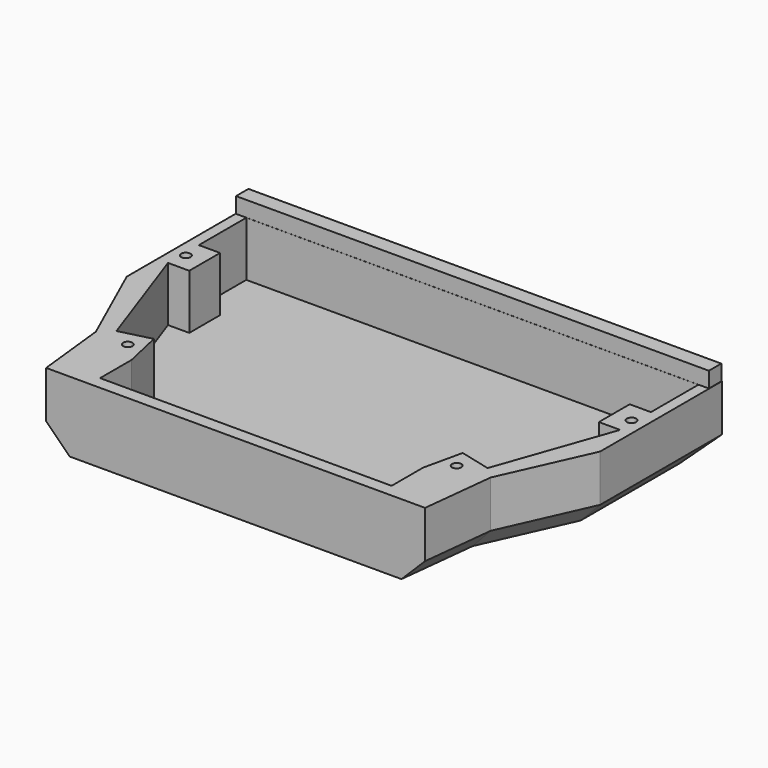
from build123d import *

# Parameters (mm, degrees)
PAD046_DEPTH    = 9
CHAMFER016_SIZE = 3
SKETCH088_R     = 0.6
POCKET040_DEPTH = 7
SKETCH089_W     = 60.467484
SKETCH089_H     = 1.984499
PAD047_DEPTH    = 2


with BuildPart() as part:
    # Sketch085 → Pad046 (new body)
    with BuildSketch(Plane.XY.offset(-11)):
        Polygon((-30.27, -16.85), (30.27, -16.85), (30.27, -36.310793), (25.241268, -47.527155), (24.231199, -56.751064), (-24.231199, -56.751064), (-25.241268, -47.527155), (-30.27, -36.310793), align=None)
    extrude(amount=-PAD046_DEPTH)

    # Chamfer016
    chamfer016_edges = [part.edges().sort_by_distance(p)[0] for p in [
        (24.736234, -52.139109, -20),
        (27.755634, -41.918974, -20),
        (30.27, -26.580397, -20),
        (0, -16.85, -20),
        (-30.27, -26.580397, -20),
        (-27.755634, -41.918974, -20),
        (-24.736234, -52.139109, -20),
    ]]
    chamfer(chamfer016_edges, length=CHAMFER016_SIZE)

    # Sketch088 (on Face4 of Chamfer016) → Pocket040 (cut)
    with BuildSketch(Plane.XY.offset(-11)):
        with Locations((-28.523069, -29.038105)):
            Circle(SKETCH088_R)
        with Locations((28.50172, -29.085497)):
            Circle(SKETCH088_R)
        with Locations((20.999411, -47.657658)):
            Circle(SKETCH088_R)
        with Locations((-21.032127, -47.690895)):
            Circle(SKETCH088_R)
        Polygon((-28.906572, -18.901762), (28.906572, -18.901762), (28.906572, -26.491486), (26.18985, -26.491486), (26.18985, -31.415663), (28.906572, -31.415663), (23.726078, -46.130531), (19.745981, -45.128311), (18.640522, -50.078386), (18.640522, -55.110878), (-18.640522, -55.110878), (-18.640522, -50.078386), (-19.745981, -45.128311), (-23.726078, -46.130531), (-28.906572, -31.415663), (-26.18985, -31.415663), (-26.18985, -26.491486), (-28.906572, -26.491486), align=None)
    extrude(amount=-POCKET040_DEPTH, mode=Mode.SUBTRACT)

    # Sketch089 (on Face4 of Pocket040) → Pad047 (join)
    with BuildSketch(Plane.XY.offset(-11)):
        with Locations((0, -17.897196)):
            Rectangle(SKETCH089_W, SKETCH089_H)
    extrude(amount=PAD047_DEPTH)


with BuildPart() as part_1:
    # Body009 placement: moved
    add(part.part.moved(Location((0, 0, -0.2))))


solid = part_1.part
